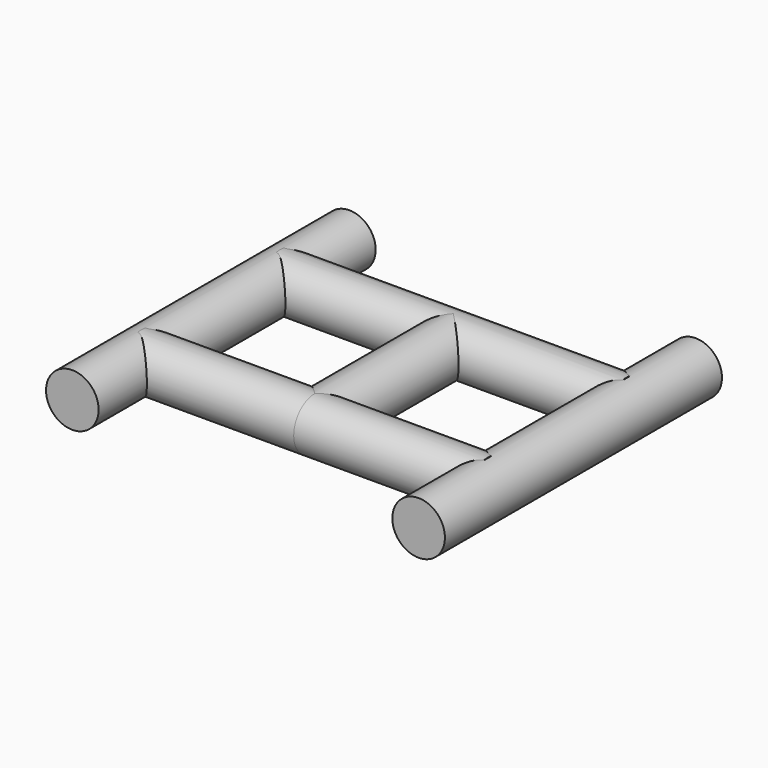
from build123d import *

# Parameters (mm, degrees)
F0_R     = 30
F1_DEPTH = 197.5
F2_DEPTH = 98.75
F4_R     = 30
F5_DEPTH = 197.5


with BuildPart() as f1:
    # F0 (on Front) → F1 (new body, symmetric)
    with BuildSketch(Plane.XZ):
        with Locations((-197.5, -0.508031)):
            Circle(F0_R)
    extrude(amount=F1_DEPTH, both=True)

    # F0 (on Front) → F2 (join, symmetric)
    with BuildSketch(Plane.XZ):
        Circle(F0_R)
        with Locations((-197.5, -0.508031)):
            Circle(F0_R)
    extrude(amount=F2_DEPTH, both=True)

    # F3: F1 across plane


with BuildPart() as f1_1:
    add(f1.part)
    add(f1.part.mirror(Plane.YZ))

    # F4 (on Right) → F5 (join, symmetric)
    with BuildSketch(Plane.YZ):
        with Locations((-98.75, 0)):
            Circle(F4_R)
        with Locations((98.75, 0)):
            Circle(F4_R)
    extrude(amount=F5_DEPTH, both=True)


solid = f1_1.part
